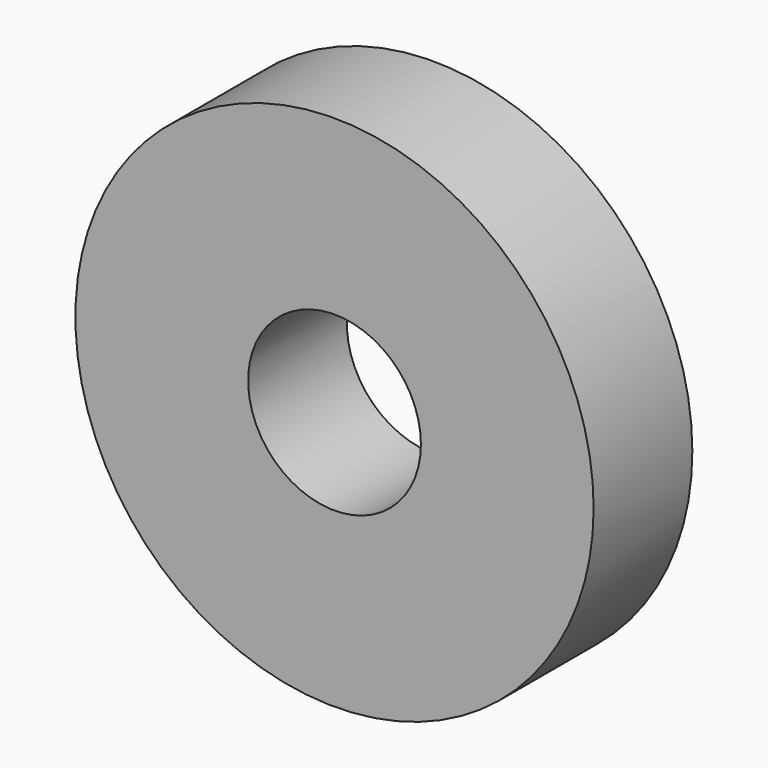
from build123d import *

# Parameters (mm, degrees)
CYLINDER010_R                = 3.5
CYLINDER010_DEPTH            = 10
CYLINDER011_R                = 10.5
CYLINDER011_DEPTH            = 5
CUT005014014_PLACEMENT_ANGLE = 90


with BuildPart() as cylinder010:
    # Cylinder010 → Cylinder010 (new body)
    with BuildSketch(Plane.XY.offset(-3)):
        Circle(CYLINDER010_R)
    extrude(amount=CYLINDER010_DEPTH)


with BuildPart() as obj1:
    # Cylinder011 → Cylinder011 (new body)
    with BuildSketch(Plane.XY):
        Circle(CYLINDER011_R)
    extrude(amount=CYLINDER011_DEPTH)

    # Cut005014014: cut Cylinder010
    add(cylinder010.part, mode=Mode.SUBTRACT)


with BuildPart() as obj1_1:
    # Cut005014014 placement: moved
    add(obj1.part.moved(Location((89, 0.5, 10.4))).rotate(Axis((89, 0.5, 10.4), (1, 0, 0)), CUT005014014_PLACEMENT_ANGLE))


solid = obj1_1.part
